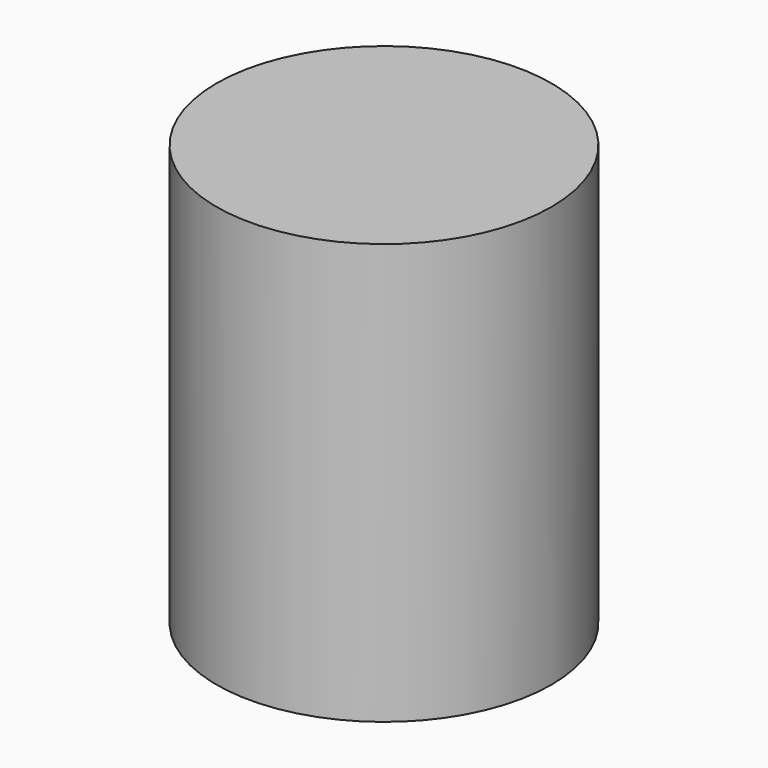
from build123d import *

# Parameters (mm, degrees)
SKETCH002_R       = 12.5
PAD002_DEPTH      = 30.4
PAD002_DEPTH_BACK = 1


with BuildPart() as part:
    # Sketch002 → Pad002 (new body, two sides)
    with BuildSketch(Plane.XY) as pad002_sk:
        Circle(SKETCH002_R)
    extrude(amount=PAD002_DEPTH)
    extrude(pad002_sk.sketch, amount=-PAD002_DEPTH_BACK)


solid = part.part
